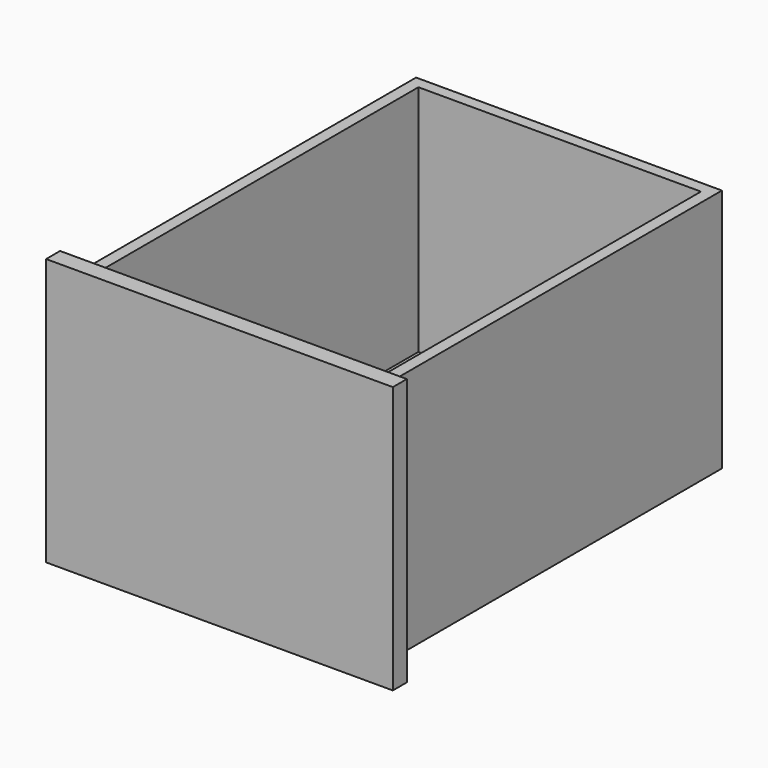
from build123d import *

# Parameters (mm, degrees)
F0_W     = 377.952
F0_H     = 291.084
F1_DEPTH = 19.05
F2_W     = 333.375
F2_H     = 266.7
F3_DEPTH = 457.2
F4_W     = 307.975
F4_H     = 431.8
F5_DEPTH = 254
F6_W     = 307.975
F6_H     = 431.8
F7_DEPTH = 6.35


with BuildPart() as f1:
    # F0 (on Front) → F1 (new body)
    with BuildSketch(Plane.XZ):
        Rectangle(F0_W, F0_H)
    extrude(amount=F1_DEPTH)

    # F2 (on face) → F3 (join)
    with BuildSketch(Plane(origin=(0, 0, 0), x_dir=(-1, 0, 0), z_dir=(0, 1, 0))):
        Rectangle(F2_W, F2_H)
    extrude(amount=F3_DEPTH)

    # F4 (on face) → F5 (cut)
    with BuildSketch(Plane.XY.offset(133.35)):
        with Locations((0, 228.6)):
            Rectangle(F4_W, F4_H)
    extrude(amount=-F5_DEPTH, mode=Mode.SUBTRACT)

    # F6 (on face) → F7 (cut)
    with BuildSketch(Plane(origin=(0, 0, -133.35), x_dir=(1, 0, 0), z_dir=(0, 0, -1))):
        with Locations((0, -228.6)):
            Rectangle(F6_W, F6_H)
    extrude(amount=-F7_DEPTH, mode=Mode.SUBTRACT)


solid = f1.part
